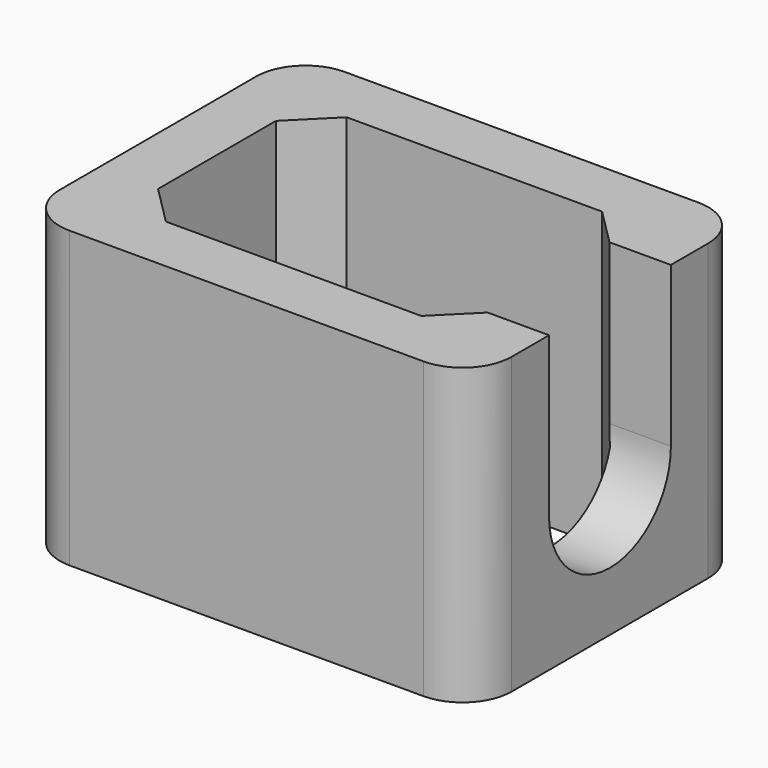
from build123d import *

# Parameters (mm, degrees)
F0_W     = 46
F0_H     = 35
F1_DEPTH = 30
F3_DEPTH = 6.251
F4_R     = 5


with BuildPart() as f1:
    # F0 (on Top) → F1 (new body)
    with BuildSketch(Plane.XY):
        Rectangle(F0_W, F0_H)
        Polygon((-17, 7.5), (-13, 11.5), (13, 11.5), (17, 7.5), (17, -7.5), (13, -11.5), (-13, -11.5), (-17, -7.5), align=None, mode=Mode.SUBTRACT)
    extrude(amount=F1_DEPTH)

    # F2 (on face) → F3 (cut, through all)
    with BuildSketch(Plane.YZ.offset(23)):
        with BuildLine():
            Line((-7.75, 30), (-7.75, 13.75))
            ThreePointArc((-7.75, 13.75), (0, 6), (7.75, 13.75))
            Line((7.75, 13.75), (7.75, 30))
            Line((7.75, 30), (-7.75, 30))
        make_face()
    extrude(amount=-F3_DEPTH, mode=Mode.SUBTRACT)

    # F4
    f4_edges = [f1.edges().sort_by_distance(p)[0] for p in [
        (23, -17.5, 15),
        (23, 17.5, 15),
        (-23, 17.5, 15),
        (-23, -17.5, 15),
    ]]
    fillet(f4_edges, radius=F4_R)


solid = f1.part
